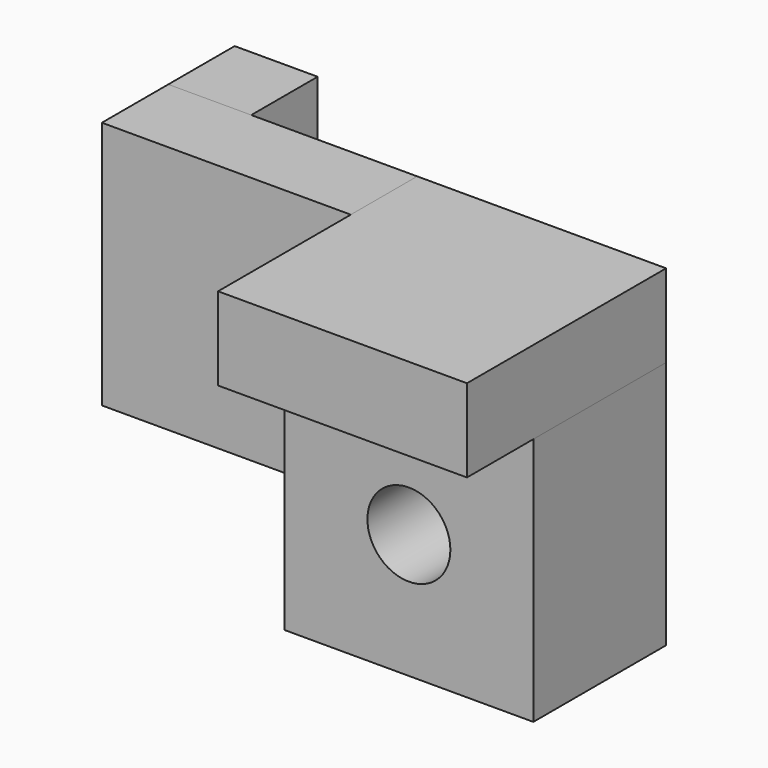
from build123d import *

# Parameters (mm, degrees)
F0_W     = 19.05
F0_H     = 19.05
F0_R     = 3.175
F1_DEPTH = 6.35
F2_W     = 6.35
F2_H     = 19.05
F3_DEPTH = 6.35
F4_R     = 3.175
F5_DEPTH = 6.35
F6_W     = 19.05
F6_H     = 6.35
F7_DEPTH = 19.05


with BuildPart() as f1:
    # F0 (on Front) → F1 (new body)
    with BuildSketch(Plane.XZ):
        with Locations((9.525, 9.525)):
            Rectangle(F0_W, F0_H)
        with Locations((12.7, 9.525)):
            Circle(F0_R, mode=Mode.SUBTRACT)
    extrude(amount=F1_DEPTH)


with BuildPart() as f3:
    # F2 (on face) → F3 (new body)
    with BuildSketch(Plane.XZ):
        with Locations((3.175, 9.525)):
            Rectangle(F2_W, F2_H)
    extrude(amount=-F3_DEPTH)


with BuildPart() as f5:
    # F4 (on face) → F5 (new body, symmetric)
    with BuildSketch(Plane.XZ.offset(6.35)):
        Polygon((19.05, 12.7), (19.05, 0), (19.05, -6.35), (38.1, -6.35), (38.1, 12.7), align=None)
        with Locations((28.575, 3.175)):
            Circle(F4_R, mode=Mode.SUBTRACT)
    extrude(amount=F5_DEPTH, both=True)


with BuildPart() as f7:
    # F6 (on face) → F7 (new body)
    with BuildSketch(Plane(origin=(0, 0, 0), x_dir=(-1, 0, 0), z_dir=(0, 1, 0))):
        with Locations((-28.575, 15.875)):
            Rectangle(F6_W, F6_H)
    extrude(amount=-F7_DEPTH)


solid = Compound([f1.part, f3.part, f5.part, f7.part])
